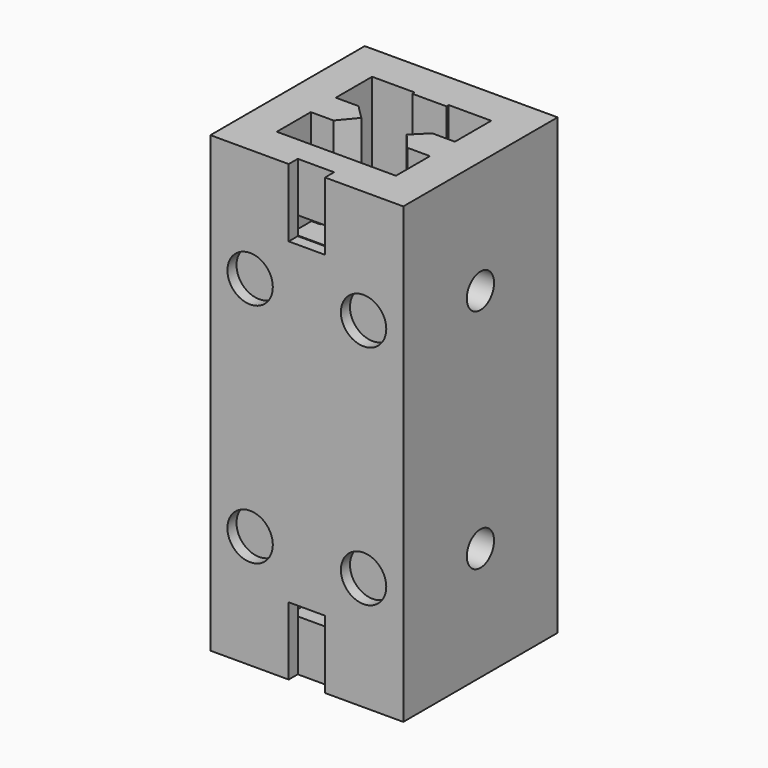
from build123d import *

# Parameters (mm, degrees)
SKETCH_W        = 34
SKETCH_H        = 34
PAD_DEPTH       = 80
POCKET_DEPTH    = 80
SKETCH002_R     = 3
POCKET001_DEPTH = 4
SKETCH003_R     = 3
POCKET002_DEPTH = 4
SKETCH004_R     = 4
POCKET003_DEPTH = 2
SKETCH005_R     = 4
POCKET004_DEPTH = 2
SKETCH006_W     = 6.4
SKETCH006_H     = 2
SKETCH006_H_2   = 7
POCKET005_DEPTH = 12
SKETCH007_W     = 6.4
SKETCH007_H     = 2
SKETCH007_W_2   = 6
SKETCH007_H_2   = 6.6
POCKET006_DEPTH = 12
CHAMFER_SIZE    = 1.98
SKETCH008_W     = 8
SKETCH008_H     = 5
POCKET007_DEPTH = 80
SKETCH009_W     = 9.188405
SKETCH009_H     = 3.137501
POCKET008_DEPTH = 8
SKETCH010_W     = 8.306599
SKETCH010_H     = 2.918531
POCKET009_DEPTH = 8


with BuildPart() as part:
    # Sketch → Pad (new body)
    with BuildSketch(Plane.XY):
        with Locations((17, 17)):
            Rectangle(SKETCH_W, SKETCH_H)
    extrude(amount=PAD_DEPTH)

    # Sketch001 (on Face6 of Pad) → Pocket (cut)
    with BuildSketch(Plane.XY.offset(80)):
        Polygon((6.5, 27.5), (14, 27.5), (14, 23.5), (17, 21), (20, 23.5), (20, 27.5), (27.5, 27.5), (27.5, 19.5), (23.5, 19.5), (21, 17), (23.5, 14), (27.5, 14), (27.5, 6.5), (20, 6.5), (20, 10.5), (17, 13), (14, 10.5), (14, 6.5), (6.5, 6.5), (6.5, 14), (10.5, 14), (13, 17), (10.5, 19.5), (6.5, 19.5), align=None)
    extrude(amount=-POCKET_DEPTH, mode=Mode.SUBTRACT)

    # Sketch002 (on Face2 of Pocket) → Pocket001 (cut)
    with BuildSketch(Plane(origin=(0, 0, 0), x_dir=(0, -1, 0), z_dir=(-1, 0, 0))):
        with Locations((-17, 60)):
            Circle(SKETCH002_R)
        with Locations((-17, 20)):
            Circle(SKETCH002_R)
    extrude(amount=-POCKET001_DEPTH, mode=Mode.SUBTRACT)

    # Sketch003 (on Face3 of Pocket001) → Pocket002 (cut)
    with BuildSketch(Plane.YZ.offset(34)):
        with Locations((17, 60)):
            Circle(SKETCH003_R)
        with Locations((17, 20)):
            Circle(SKETCH003_R)
    extrude(amount=-POCKET002_DEPTH, mode=Mode.SUBTRACT)

    # Sketch004 (on Face1 of Pocket002) → Pocket003 (cut)
    with BuildSketch(Plane(origin=(0, 34, 0), x_dir=(-1, 0, 0), z_dir=(0, 1, 0))):
        with Locations((-27, 60)):
            Circle(SKETCH004_R)
        with Locations((-7, 60)):
            Circle(SKETCH004_R)
        with Locations((-27, 20)):
            Circle(SKETCH004_R)
        with Locations((-7, 20)):
            Circle(SKETCH004_R)
    extrude(amount=-POCKET003_DEPTH, mode=Mode.SUBTRACT)

    # Sketch005 (on Face10 of Pocket003) → Pocket004 (cut)
    with BuildSketch(Plane.XZ):
        with Locations((7, 60)):
            Circle(SKETCH005_R)
        with Locations((27, 60)):
            Circle(SKETCH005_R)
        with Locations((7, 20)):
            Circle(SKETCH005_R)
        with Locations((27, 20)):
            Circle(SKETCH005_R)
    extrude(amount=-POCKET004_DEPTH, mode=Mode.SUBTRACT)

    # Sketch006 (on Face4 of Pocket004) → Pocket005 (cut)
    with BuildSketch(Plane.XY.offset(80)):
        with Locations((17, 1)):
            Rectangle(SKETCH006_W, SKETCH006_H)
        with Locations((17, 10)):
            Rectangle(SKETCH006_W, SKETCH006_H_2)
    extrude(amount=-POCKET005_DEPTH, mode=Mode.SUBTRACT)

    # Sketch007 (on Face3 of Pocket005) → Pocket006 (cut)
    with BuildSketch(Plane(origin=(0, 0, 0), x_dir=(1, 0, 0), z_dir=(0, 0, -1))):
        with Locations((17, -1)):
            Rectangle(SKETCH007_W, SKETCH007_H)
        with Locations((17, -9.8)):
            Rectangle(SKETCH007_W_2, SKETCH007_H_2)
    extrude(amount=-POCKET006_DEPTH, mode=Mode.SUBTRACT)

    # Chamfer
    chamfer_edges = [part.edges().sort_by_distance(p)[0] for p in [
        (17, 21, 40),
    ]]
    chamfer(chamfer_edges, length=CHAMFER_SIZE)

    # Sketch008 (on Face1 of Chamfer) → Pocket007 (cut)
    with BuildSketch(Plane(origin=(0, 0, 0), x_dir=(1, 0, 0), z_dir=(0, 0, -1))):
        with Locations((17, -24.5)):
            Rectangle(SKETCH008_W, SKETCH008_H)
    extrude(amount=-POCKET007_DEPTH, mode=Mode.SUBTRACT)

    # Sketch009 (on Face8 of Pocket007) → Pocket008 (cut)
    with BuildSketch(Plane.XZ.offset(-2)):
        with Locations((17.216907, 69.686737)):
            Rectangle(SKETCH009_W, SKETCH009_H)
    extrude(amount=-POCKET008_DEPTH, mode=Mode.SUBTRACT)

    # Sketch010 (on Face8 of Pocket008) → Pocket009 (cut)
    with BuildSketch(Plane.XZ.offset(-2)):
        with Locations((16.61403, 10.454884)):
            Rectangle(SKETCH010_W, SKETCH010_H)
    extrude(amount=-POCKET009_DEPTH, mode=Mode.SUBTRACT)


solid = part.part
